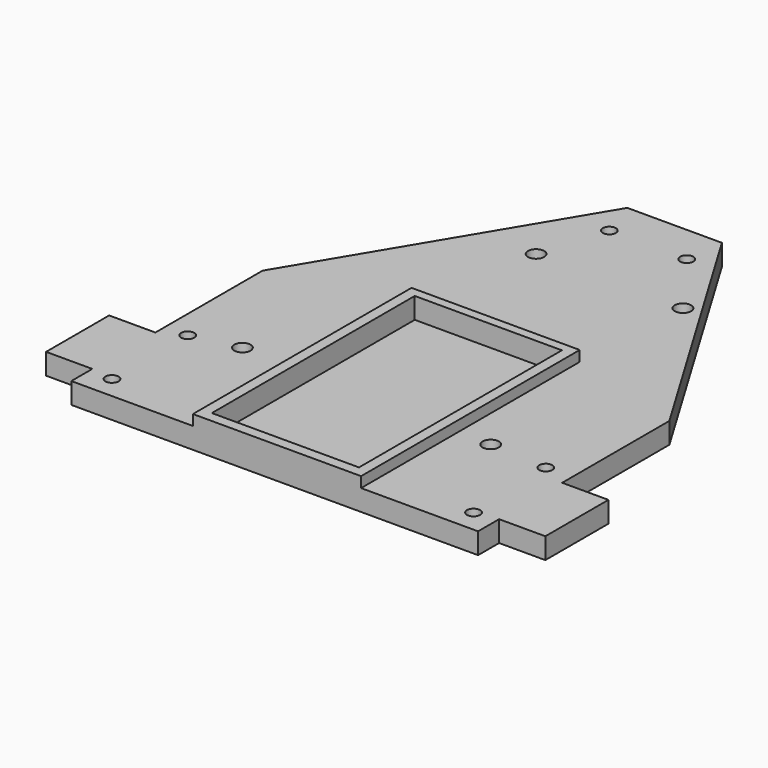
from build123d import *

# Parameters (mm, degrees)
F0_R     = 1.25
F0_R_2   = 1.55
F1_DEPTH = 4
F6_W     = 32
F6_H     = 52
F7_DEPTH = 2
F8_W     = 28
F8_H     = 48.26
F9_DEPTH = 4


with BuildPart() as f1:
    # F0 (on Top) → F1 (new body)
    with BuildSketch(Plane.XY):
        Polygon((-13.626695, 74.19249), (-31.626695, 74.19249), (-61.326636, 24.569767), (-61.326636, -0.930233), (-70.126636, -0.930233), (-70.126636, -15.930233), (-61.326636, -15.930233), (-61.326636, -20.930233), (16.073364, -20.930233), (16.073364, -15.930233), (24.873364, -15.930233), (24.873364, -0.930233), (16.073246, -0.930233), (16.073246, 24.569767), align=None)
        with Locations((-57.026636, -16.630233)):
            Circle(F0_R, mode=Mode.SUBTRACT)
        with Locations((-57.026636, 1.369767)):
            Circle(F0_R, mode=Mode.SUBTRACT)
        with Locations((-48.186636, 3.339767)):
            Circle(F0_R_2, mode=Mode.SUBTRACT)
        with Locations((0.073364, 2.069767)):
            Circle(F0_R_2, mode=Mode.SUBTRACT)
        with Locations((11.773364, -16.630233)):
            Circle(F0_R, mode=Mode.SUBTRACT)
        with Locations((11.116156, 1.369767)):
            Circle(F0_R, mode=Mode.SUBTRACT)
        with Locations((-32.946636, 54.139767)):
            Circle(F0_R_2, mode=Mode.SUBTRACT)
        with Locations((-29.159842, 66.82249)):
            Circle(F0_R, mode=Mode.SUBTRACT)
        with Locations((-5.006636, 54.139767)):
            Circle(F0_R_2, mode=Mode.SUBTRACT)
        with Locations((-14.419842, 66.82249)):
            Circle(F0_R, mode=Mode.SUBTRACT)
    extrude(amount=F1_DEPTH)

    # F6 (on face) → F7 (join)
    with BuildSketch(Plane.XY.offset(4)):
        with Locations((-22.18772, 5.069767)):
            Rectangle(F6_W, F6_H)
    extrude(amount=F7_DEPTH)

    # F8 (on face) → F9 (cut)
    with BuildSketch(Plane.XY.offset(6)):
        with Locations((-22.18772, 5.199767)):
            Rectangle(F8_W, F8_H)
    extrude(amount=-F9_DEPTH, mode=Mode.SUBTRACT)


with BuildPart() as f2_1:
    # F2: copy of F1
    add(f1.part.moved(Location((0, 0, 7))))


with BuildPart() as f4_1:
    # F4: copy of F1
    add(f1.part.moved(Location((0, 0, 6))))


solid = f1.part
